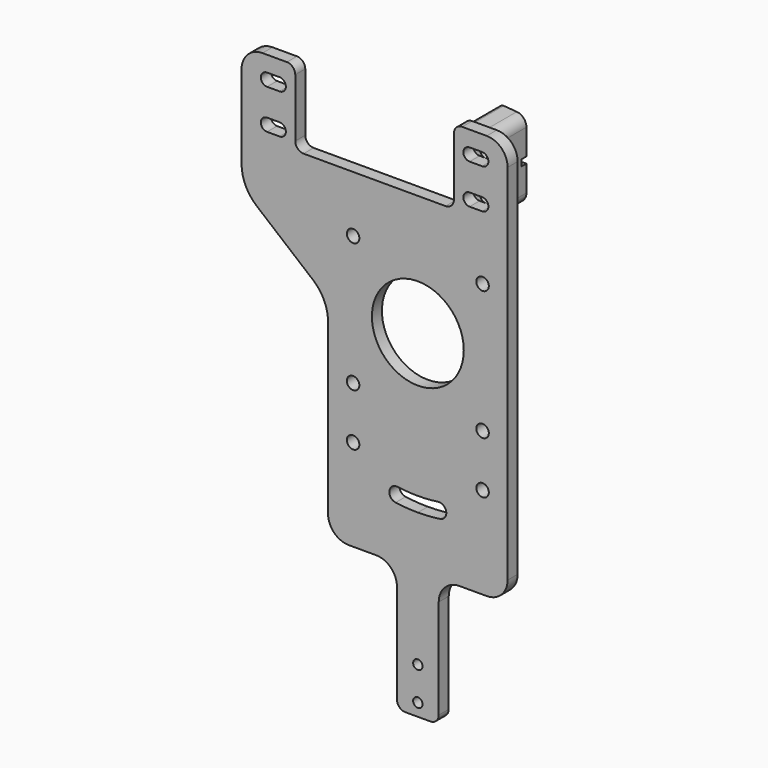
from build123d import *

# Parameters (mm, degrees)
F1_R     = 1.5
F1_R_2   = 1.125
F1_R_3   = 11
F2_DEPTH = 3
F3_R     = 1.5
F4_DEPTH = 9
F5_W     = 6.5
F5_H     = 1.5
F6_DEPTH = 1.5
F7_R     = 1
F8_R     = 2.5


with BuildPart() as f2:
    # F1 (on Front) → F2 (new body)
    with BuildSketch(Plane.XZ):
        with BuildLine():
            ThreePointArc((16.5, -50), (20.035534, -48.535534), (21.5, -45))
            Line((21.5, -45), (21.5, 42))
            ThreePointArc((21.5, 42), (20.035534, 45.535534), (16.5, 47))
            Line((16.5, 47), (10.65, 47))
            ThreePointArc((10.65, 47), (9.235786, 46.414214), (8.65, 45))
            Line((8.65, 45), (8.65, 31))
            ThreePointArc((8.65, 31), (8.064214, 29.585786), (6.65, 29))
            Line((6.65, 29), (-27.35, 29))
            ThreePointArc((-27.35, 29), (-28.764214, 29.585786), (-29.35, 31))
            Line((-29.35, 31), (-29.35, 45))
            ThreePointArc((-29.35, 45), (-29.935786, 46.414214), (-31.35, 47))
            Line((-31.35, 47), (-37.2, 47))
            ThreePointArc((-37.2, 47), (-40.735534, 45.535534), (-42.2, 42))
            Line((-42.2, 42), (-42.2, 22.015033))
            ThreePointArc((-42.2, 22.015033), (-41.251777, 17.7647), (-38.586933, 14.320419))
            Line((-38.586933, 14.320419), (-25.113067, 3.136405))
            ThreePointArc((-25.113067, 3.136405), (-22.448223, -0.307876), (-21.5, -4.558209))
            Line((-21.5, -4.558209), (-21.5, -45))
            ThreePointArc((-21.5, -45), (-20.035534, -48.535534), (-16.5, -50))
            Line((-16.5, -50), (-10, -50))
            ThreePointArc((-10, -50), (-6.464466, -51.464466), (-5, -55))
            Line((-5, -55), (-5, -78.815218))
            ThreePointArc((-5, -78.815218), (-4.414214, -80.229432), (-3, -80.815218))
            Line((-3, -80.815218), (3, -80.815218))
            ThreePointArc((3, -80.815218), (4.414214, -80.229432), (5, -78.815218))
            Line((5, -78.815218), (5, -55))
            ThreePointArc((5, -55), (6.464466, -51.464466), (10, -50))
            Line((10, -50), (16.5, -50))
        make_face()
        with Locations((-15.5, -28)):
            Circle(F1_R, mode=Mode.SUBTRACT)
        with Locations((0, -77.815218)):
            Circle(F1_R_2, mode=Mode.SUBTRACT)
        with Locations((0, -69.815218)):
            Circle(F1_R_2, mode=Mode.SUBTRACT)
        with BuildLine():
            ThreePointArc((0, -34.25), (2.419604, -34.164426), (4.827117, -33.908132))
            ThreePointArc((4.827117, -33.908132), (6.80629, -35.394024), (5.320399, -37.373197))
            ThreePointArc((5.320399, -37.373197), (2.666863, -37.655681), (0, -37.75))
            ThreePointArc((0, -37.75), (-2.666863, -37.655681), (-5.320399, -37.373197))
            ThreePointArc((-5.320399, -37.373197), (-6.80629, -35.394024), (-4.827117, -33.908132))
            ThreePointArc((-4.827117, -33.908132), (-2.419604, -34.164426), (0, -34.25))
        make_face(mode=Mode.SUBTRACT)
        with Locations((15.5, -28)):
            Circle(F1_R, mode=Mode.SUBTRACT)
        with Locations((-15.5, -15.5)):
            Circle(F1_R, mode=Mode.SUBTRACT)
        with BuildLine():
            ThreePointArc((-36.1, 30.75), (-37.6, 32.25), (-36.1, 33.75))
            Line((-36.1, 33.75), (-33.1, 33.75))
            ThreePointArc((-33.1, 33.75), (-31.6, 32.25), (-33.1, 30.75))
            Line((-33.1, 30.75), (-36.1, 30.75))
        make_face(mode=Mode.SUBTRACT)
        with BuildLine():
            Line((-33.1, 40.25), (-36.1, 40.25))
            ThreePointArc((-36.1, 40.25), (-37.6, 41.75), (-36.1, 43.25))
            Line((-36.1, 43.25), (-33.1, 43.25))
            ThreePointArc((-33.1, 43.25), (-31.6, 41.75), (-33.1, 40.25))
        make_face(mode=Mode.SUBTRACT)
        with Locations((-15.5, 15.5)):
            Circle(F1_R, mode=Mode.SUBTRACT)
        Circle(F1_R_3, mode=Mode.SUBTRACT)
        with Locations((15.5, -15.5)):
            Circle(F1_R, mode=Mode.SUBTRACT)
        with Locations((15.5, 15.5)):
            Circle(F1_R, mode=Mode.SUBTRACT)
        with BuildLine():
            Line((15.4, 30.75), (12.4, 30.75))
            ThreePointArc((12.4, 30.75), (10.9, 32.25), (12.4, 33.75))
            Line((12.4, 33.75), (15.4, 33.75))
            ThreePointArc((15.4, 33.75), (16.9, 32.25), (15.4, 30.75))
        make_face(mode=Mode.SUBTRACT)
        with BuildLine():
            Line((15.4, 40.25), (12.4, 40.25))
            ThreePointArc((12.4, 40.25), (10.9, 41.75), (12.4, 43.25))
            Line((12.4, 43.25), (15.4, 43.25))
            ThreePointArc((15.4, 43.25), (16.9, 41.75), (15.4, 40.25))
        make_face(mode=Mode.SUBTRACT)
    extrude(amount=F2_DEPTH)


with BuildPart() as f4:
    # F3 (on Front) → F4 (new body)
    with BuildSketch(Plane.XZ):
        Polygon((16.4, 27.75), (16.4, 46.25), (9.9, 46.75), (9.9, 27.25), align=None)
        with Locations((13.9, 32.25)):
            Circle(F3_R, mode=Mode.SUBTRACT)
        with Locations((13.9, 41.75)):
            Circle(F3_R, mode=Mode.SUBTRACT)
    extrude(amount=-F4_DEPTH)

    # F5 (on face) → F6 (cut)
    with BuildSketch(Plane(origin=(0, 9, 0), x_dir=(-1, 0, 0), z_dir=(0, 1, 0))):
        with Locations((-13.15, 37)):
            Rectangle(F5_W, F5_H)
    extrude(amount=-F6_DEPTH, mode=Mode.SUBTRACT)

    # F7
    f7_edges = [f4.edges().sort_by_distance(p)[0] for p in [
        (9.9, 4.5, 46.75),
        (9.9, 4.5, 27.25),
    ]]
    fillet(f7_edges, radius=F7_R)

    # F8
    f8_edges = [f4.edges().sort_by_distance(p)[0] for p in [
        (16.4, 4.5, 27.75),
        (16.4, 4.5, 46.25),
    ]]
    fillet(f8_edges, radius=F8_R)


solid = Compound([f2.part, f4.part])
